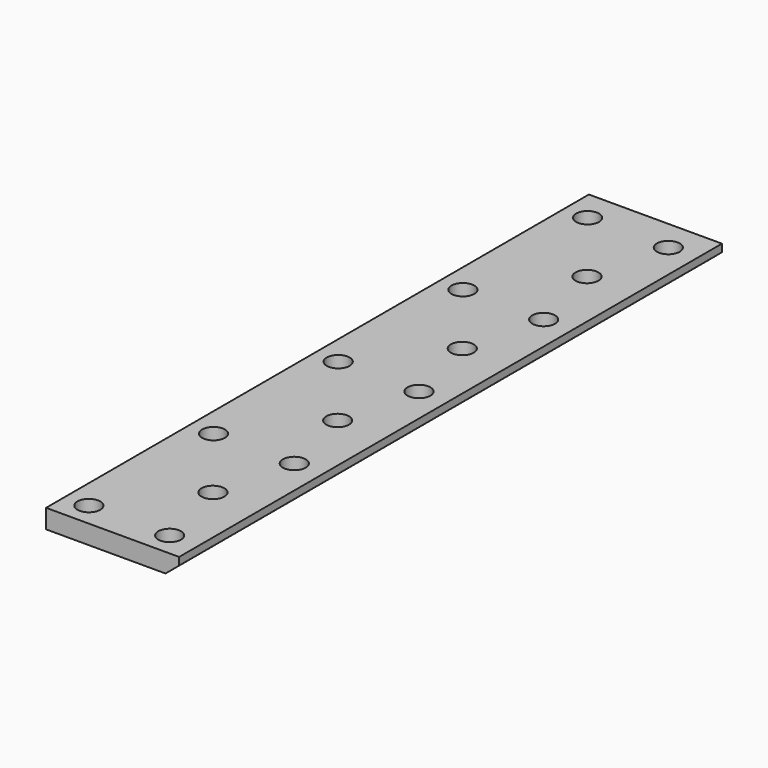
from build123d import *

# Parameters (mm, degrees)
F1_DEPTH = 714
F2_R     = 8
F3_DEPTH = 20
F2_R_2   = 12
F4_DEPTH = 15


with BuildPart() as f1:
    # F0 (on Front) → F1 (new body)
    with BuildSketch(Plane.XZ):
        Polygon((43.279102, 31.123051), (-96.720898, 31.123051), (-96.720898, 11.123051), (28.978059, 11.123051), (43.279102, 23.123051), align=None)
    extrude(amount=F1_DEPTH)

    # F2 (on face) → F3 (cut)
    with BuildSketch(Plane.XY.offset(31.123051)):
        with Locations((13.279102, -689)):
            Circle(F2_R)
        with Locations((-71.720898, -689)):
            Circle(F2_R)
        with Locations((-6.720898, -607)):
            Circle(F2_R)
        with Locations((13.279102, -525)):
            Circle(F2_R)
        with Locations((-71.720898, -525)):
            Circle(F2_R)
        with Locations((-6.720898, -443)):
            Circle(F2_R)
        with Locations((13.279102, -361)):
            Circle(F2_R)
        with Locations((-71.720898, -361)):
            Circle(F2_R)
        with Locations((-6.720898, -279)):
            Circle(F2_R)
        with Locations((13.279102, -197)):
            Circle(F2_R)
        with Locations((-71.720898, -197)):
            Circle(F2_R)
        with Locations((-6.720898, -115)):
            Circle(F2_R)
        with Locations((13.279102, -33)):
            Circle(F2_R)
        with Locations((-71.720898, -33)):
            Circle(F2_R)
    extrude(amount=-F3_DEPTH, mode=Mode.SUBTRACT)

    # F2 (on face) → F4 (cut)
    with BuildSketch(Plane.XY.offset(31.123051)):
        with Locations((-71.720898, -689)):
            Circle(F2_R_2)
        with Locations((-71.720898, -689)):
            Circle(F2_R, mode=Mode.SUBTRACT)
        with Locations((13.279102, -689)):
            Circle(F2_R_2)
        with Locations((13.279102, -689)):
            Circle(F2_R, mode=Mode.SUBTRACT)
        with Locations((-6.720898, -607)):
            Circle(F2_R_2)
        with Locations((-6.720898, -607)):
            Circle(F2_R, mode=Mode.SUBTRACT)
        with Locations((13.279102, -525)):
            Circle(F2_R_2)
        with Locations((13.279102, -525)):
            Circle(F2_R, mode=Mode.SUBTRACT)
        with Locations((-71.720898, -525)):
            Circle(F2_R_2)
        with Locations((-71.720898, -525)):
            Circle(F2_R, mode=Mode.SUBTRACT)
        with Locations((-6.720898, -443)):
            Circle(F2_R_2)
        with Locations((-6.720898, -443)):
            Circle(F2_R, mode=Mode.SUBTRACT)
        with Locations((13.279102, -361)):
            Circle(F2_R_2)
        with Locations((13.279102, -361)):
            Circle(F2_R, mode=Mode.SUBTRACT)
        with Locations((-71.720898, -361)):
            Circle(F2_R_2)
        with Locations((-71.720898, -361)):
            Circle(F2_R, mode=Mode.SUBTRACT)
        with Locations((-6.720898, -279)):
            Circle(F2_R_2)
        with Locations((-6.720898, -279)):
            Circle(F2_R, mode=Mode.SUBTRACT)
        with Locations((13.279102, -197)):
            Circle(F2_R_2)
        with Locations((13.279102, -197)):
            Circle(F2_R, mode=Mode.SUBTRACT)
        with Locations((-71.720898, -197)):
            Circle(F2_R_2)
        with Locations((-71.720898, -197)):
            Circle(F2_R, mode=Mode.SUBTRACT)
        with Locations((-6.720898, -115)):
            Circle(F2_R_2)
        with Locations((-6.720898, -115)):
            Circle(F2_R, mode=Mode.SUBTRACT)
        with Locations((13.279102, -33)):
            Circle(F2_R_2)
        with Locations((13.279102, -33)):
            Circle(F2_R, mode=Mode.SUBTRACT)
        with Locations((-71.720898, -33)):
            Circle(F2_R_2)
        with Locations((-71.720898, -33)):
            Circle(F2_R, mode=Mode.SUBTRACT)
    extrude(amount=-F4_DEPTH, mode=Mode.SUBTRACT)


solid = f1.part
